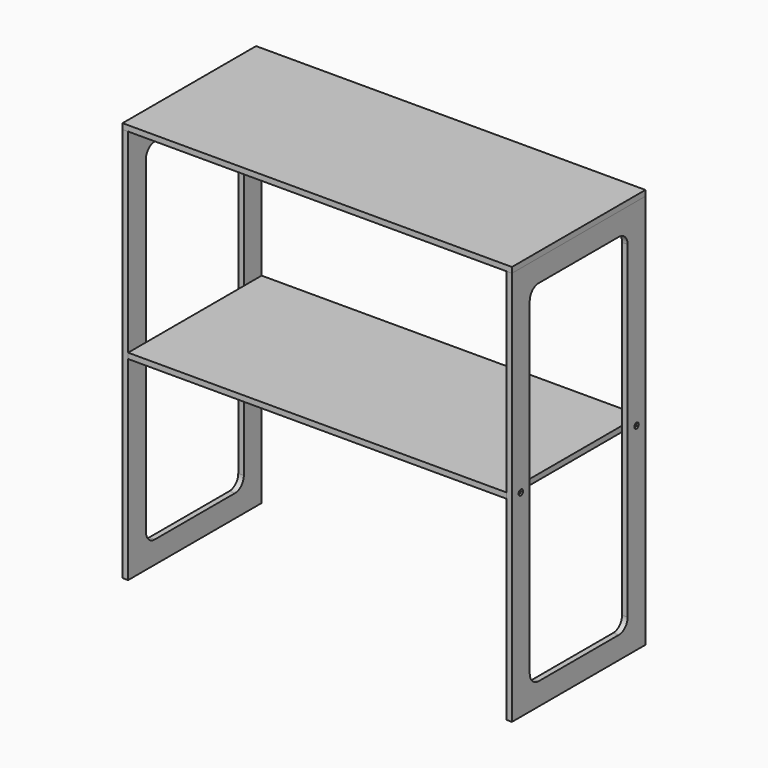
from build123d import *

# Parameters (mm, degrees)
F4_DEPTH       = 10
F6_D           = 6
F6_CSINK_D     = 10
F6_CSINK_ANGLE = 90
F9_W           = 700
F9_H           = 300
F10_DEPTH      = 10
F11_D          = 6
F11_DEPTH      = 5
F11_TIP        = 1.8025818571
F12_W          = 680
F12_H          = 300
F13_DEPTH      = 5
F13_DEPTH_BACK = 5
F14_R          = 20


with BuildPart() as f4:
    # F3 (on offset) → F4 (new body)
    with BuildSketch(Plane.YZ.offset(340)):
        Polygon((-150, -355), (150, -355), (150, -5), (110, -5), (110, -315), (-110, -315), (-110, -5), (-150, -5), align=None)
        Polygon((110, -5), (150, -5), (150, 355), (-150, 355), (-150, -5), (-110, -5), (-110, 315), (110, 315), align=None)
    extrude(amount=F4_DEPTH)

    # F6 (through all)
    with Locations(Plane.YZ.offset(350)):
        with Locations((-130, 0), (130, 0)):
            CounterSinkHole(F6_D / 2, F6_CSINK_D / 2, counter_sink_angle=F6_CSINK_ANGLE)

    # F14
    f14_edges = [f4.edges().sort_by_distance(p)[0] for p in [
        (345, -110, 315),
        (345, 110, 315),
        (345, 110, -315),
        (345, -110, -315),
    ]]
    fillet(f14_edges, radius=F14_R)


with BuildPart() as f10:
    # F9 (on plane+point) → F10 (new body)
    with BuildSketch(Plane.XY.offset(355)):
        Rectangle(F9_W, F9_H)
    extrude(amount=F10_DEPTH)

    # F11
    with Locations(Plane(origin=(0, 0, 355), x_dir=(1, 0, 0), z_dir=(0, 0, -1))):
        with Locations((-345, 130), (-345, -130), (345, 130), (345, -130)):
            Hole(F11_D / 2, depth=F11_DEPTH)
            with Locations((0, 0, -(F11_DEPTH + F11_TIP / 2))):  # 118° drill point
                Cone(0, F11_D / 2, F11_TIP, mode=Mode.SUBTRACT)


with BuildPart() as f13:
    # F12 (on Top) → F13 (new body, two sides)
    with BuildSketch(Plane.XY) as f13_sk:
        Rectangle(F12_W, F12_H)
    extrude(amount=F13_DEPTH)
    extrude(f13_sk.sketch, amount=-F13_DEPTH_BACK)


with BuildPart() as f15_1:
    # F15: instance of F4
    add(f4.part.mirror(Plane.YZ))


solid = Compound([f4.part, f10.part, f13.part, f15_1.part])
